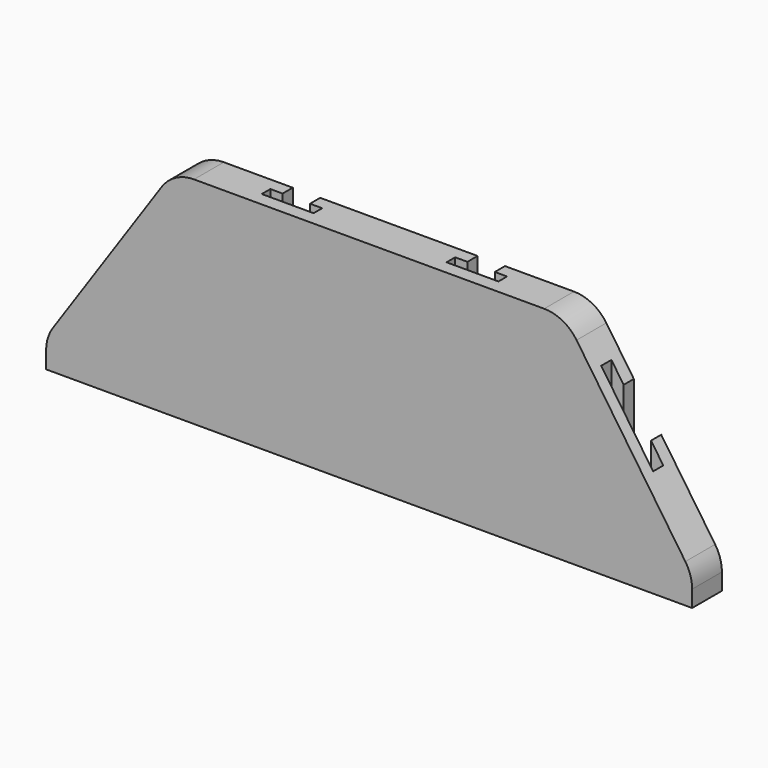
from build123d import *

# Parameters (mm, degrees)
F1_DEPTH = 4.826
F2_W     = 3.556
F2_H     = 1.651
F3_DEPTH = 25.4
F5_W     = 3.556
F5_H     = 1.651
F6_DEPTH = 50.8
F7_R     = 5.08
F8_R     = 5.08


with BuildPart() as f1:
    # F0 (on Front) → F1 (new body)
    with BuildSketch(Plane.XZ):
        Polygon((-25.4, 12.417778), (-41.91, -11.796889), (-41.91, -15.522222), (41.91, -15.522222), (41.91, -11.796889), (25.4, 12.417778), align=None)
        Polygon((-37.240951, -11.712222), (-23.386406, 8.607778), (23.386406, 8.607778), (37.240951, -11.712222), align=None, mode=Mode.SUBTRACT)
        Polygon((-25.4, 12.417778), (-41.91, -11.796889), (-41.91, -15.522222), (41.91, -15.522222), (41.91, -11.796889), (25.4, 12.417778), align=None)
        Polygon((-37.240951, -11.712222), (-23.386406, 8.607778), (23.386406, 8.607778), (37.240951, -11.712222), align=None, mode=Mode.SUBTRACT)
        Polygon((23.386406, 8.607778), (-23.386406, 8.607778), (-37.240951, -11.712222), (37.240951, -11.712222), align=None)
    extrude(amount=F1_DEPTH)

    # F2 (on Top) → F3 (cut, symmetric)
    with BuildSketch(Plane.XY):
        with Locations((11.9888, -0.8255)):
            Rectangle(F2_W, F2_H)
        Polygon((15.3543, -1.651), (13.7668, -1.651), (10.2108, -1.651), (8.6233, -1.651), (8.6233, -3.048), (15.3543, -3.048), align=None)
        with Locations((-11.9888, -0.8255)):
            Rectangle(F2_W, F2_H)
        Polygon((-10.2108, -1.651), (-13.7668, -1.651), (-15.3543, -1.651), (-15.3543, -3.048), (-8.6233, -3.048), (-8.6233, -1.651), align=None)
    extrude(amount=F3_DEPTH, both=True, mode=Mode.SUBTRACT)

    # F5 (on offset) → F6 (cut)
    with BuildSketch(Plane.XY.offset(12.7)):
        with Locations((-32.258, -0.8255)):
            Rectangle(F5_W, F5_H)
        Polygon((-30.48, -1.651), (-34.036, -1.651), (-35.6235, -1.651), (-35.6235, -3.302), (-28.8925, -3.302), (-28.8925, -1.651), align=None)
        with Locations((32.258, -0.8255)):
            Rectangle(F5_W, F5_H)
        Polygon((35.6235, -1.651), (34.036, -1.651), (30.48, -1.651), (28.8925, -1.651), (28.8925, -3.302), (35.6235, -3.302), align=None)
    extrude(amount=-F6_DEPTH, mode=Mode.SUBTRACT)

    # F7
    f7_edges = [f1.edges().sort_by_distance(p)[0] for p in [
        (-41.91, -2.413, -11.796889),
        (41.91, -2.413, -11.796889),
    ]]
    fillet(f7_edges, radius=F7_R)

    # F8
    f8_edges = [f1.edges().sort_by_distance(p)[0] for p in [
        (-25.4, -2.413, 12.417778),
        (25.4, -2.413, 12.417778),
    ]]
    fillet(f8_edges, radius=F8_R)


solid = f1.part
